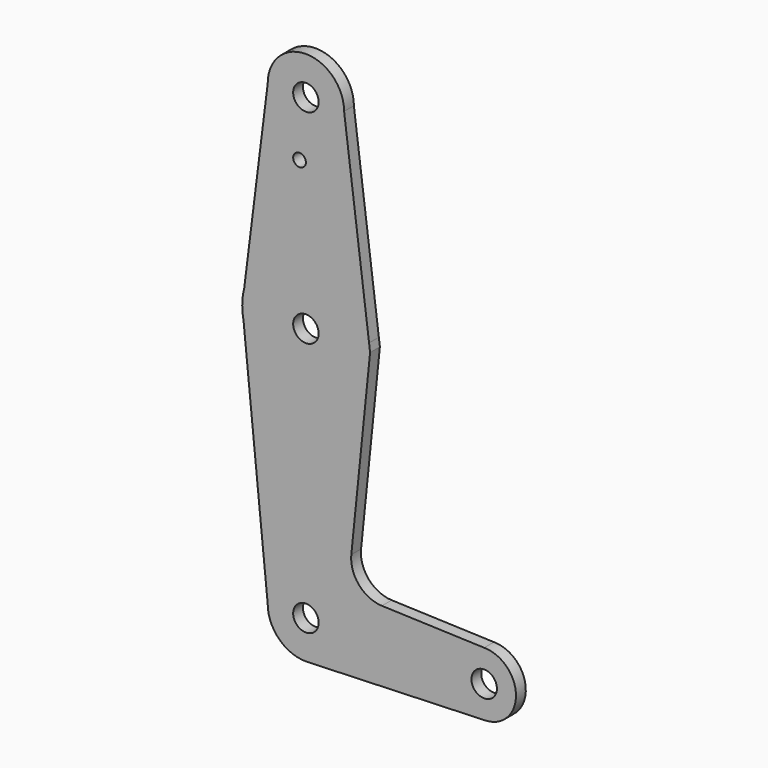
from build123d import *

# Parameters (mm, degrees)
F0_R     = 3.175
F0_R_2   = 1.5875
F1_DEPTH = 3.048


with BuildPart() as f1:
    # F0 (on Front) → F1 (new body)
    with BuildSketch(Plane.XZ):
        with BuildLine():
            ThreePointArc((0, -9.525), (0.3388863295, -9.5189695375), (0.6773435479, -9.500885786))
            Line((0.6773435479, -9.500885786), (0, -9.525))
        make_face()
        with BuildLine():
            ThreePointArc((-15.8749646926, 63.4665185438), (-15.7961337369, 61.9195620965), (-15.5669173314, 60.3876520441))
            Line((-15.5669173314, 60.3876520441), (-15.8749646926, 63.4665185438))
        make_face()
        with BuildLine():
            Line((-15.8749646926, 63.4665185438), (-15.3775554962, 67.4428938561))
            ThreePointArc((-15.3775554962, 67.4428938561), (-15.7522345937, 65.4704644897), (-15.8749646926, 63.4665185438))
        make_face()
        with BuildLine():
            ThreePointArc((44.7324052746, -7.9324746146), (50.1616327839, -5.5119104847), (52.3875, 0))
            ThreePointArc((52.3875, 0), (50.0626600757, 5.6126600757), (44.45, 7.9375))
            ThreePointArc((44.45, 7.9375), (36.5137564458, -0.1412249921), (44.7324052746, -7.9324746146))
        make_face()
        with Locations((44.45, 0)):
            Circle(F0_R, mode=Mode.SUBTRACT)
        with BuildLine():
            ThreePointArc((-9.5247516797, 114.2312218019), (0.0343893232, 104.7750620803), (9.525, 114.3))
            ThreePointArc((9.525, 114.3), (-0.0343893232, 123.8249379197), (-9.5247516797, 114.2312218019))
        make_face()
        with Locations((0, 114.3)):
            Circle(F0_R, mode=Mode.SUBTRACT)
        with BuildLine():
            ThreePointArc((44.7324052746, -7.9324746146), (36.5137564458, -0.1412249921), (44.45, 7.9375))
            Line((44.45, 7.9375), (18.946067877, 8.8483547187))
            ThreePointArc((18.946067877, 8.8483547187), (13.2356131344, 11.5709293815), (11.3206795075, 17.6004181962))
            Line((11.3206795075, 17.6004181962), (16.0035761028, 63.5))
            Line((16.0035761028, 63.5), (15.7474569259, 65.508289164))
            ThreePointArc((15.7474569259, 65.508289164), (15.8430821449, 64.5061675559), (15.875, 63.5))
            ThreePointArc((15.875, 63.5), (1.5637794545, 47.7022084196), (-15.5669173314, 60.3876520441))
            Line((-15.5669173314, 60.3876520441), (-9.525, 0))
            ThreePointArc((-9.525, 0), (0, 9.525), (9.525, 0))
            ThreePointArc((9.525, 0), (6.9705567315, -6.4912990883), (0.6773435479, -9.500885786))
            Line((0.6773435479, -9.500885786), (44.7324052746, -7.9324746146))
        make_face()
        with BuildLine():
            Line((0, -9.525), (0.6773435479, -9.500885786))
            ThreePointArc((0.6773435479, -9.500885786), (6.9705567315, -6.4912990883), (9.525, 0))
            ThreePointArc((9.525, 0), (0, 9.525), (-9.525, 0))
            ThreePointArc((-9.525, 0), (-6.7351920908, -6.7351920908), (0, -9.525))
        make_face()
        Circle(F0_R, mode=Mode.SUBTRACT)
        with BuildLine():
            ThreePointArc((-15.3775554962, 67.4428938561), (0.9848251599, 79.3444231326), (15.7474569259, 65.508289164))
            Line((15.7474569259, 65.508289164), (9.525, 114.3))
            ThreePointArc((9.525, 114.3), (0.0343893232, 104.7750620803), (-9.5247516797, 114.2312218019))
            Line((-9.5247516797, 114.2312218019), (-15.3775554962, 67.4428938561))
        make_face()
        with Locations((-1.5875, 100.0252)):
            Circle(F0_R_2, mode=Mode.SUBTRACT)
        with BuildLine():
            ThreePointArc((15.875, 63.5), (15.8430821449, 64.5061675559), (15.7474569259, 65.508289164))
            ThreePointArc((15.7474569259, 65.508289164), (0.9848251599, 79.3444231326), (-15.3775554962, 67.4428938561))
            Line((-15.3775554962, 67.4428938561), (-15.8749646926, 63.4665185438))
            Line((-15.8749646926, 63.4665185438), (-15.5669173314, 60.3876520441))
            ThreePointArc((-15.5669173314, 60.3876520441), (1.5637794545, 47.7022084196), (15.875, 63.5))
        make_face()
        with Locations((0, 63.5)):
            Circle(F0_R, mode=Mode.SUBTRACT)
    extrude(amount=F1_DEPTH)


solid = f1.part
